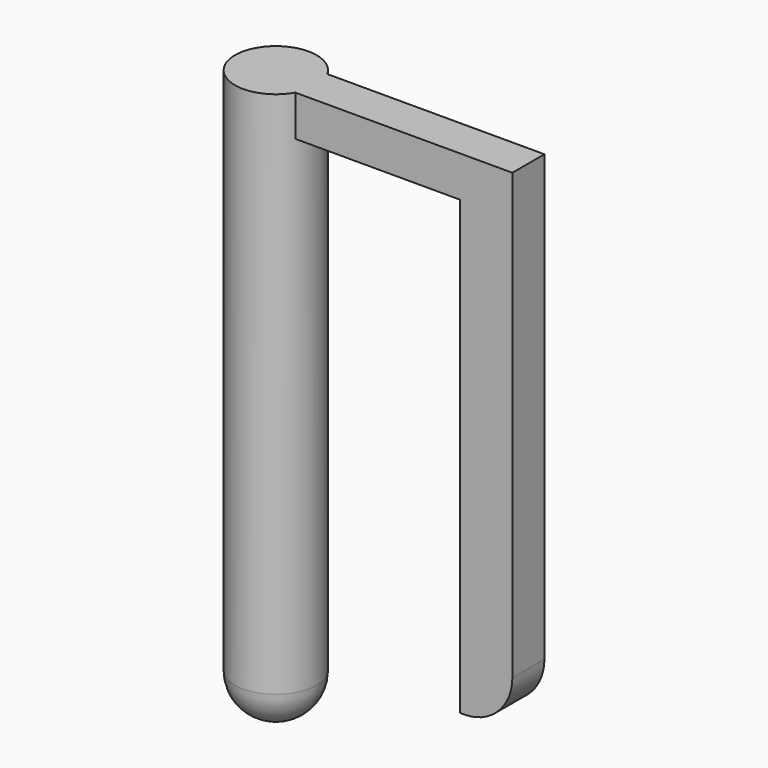
from build123d import *

# Parameters (mm, degrees)
F0_W     = 6.45983
F0_H     = 6.4516
F0_W_2   = 25.23437
F0_W_3   = 8.3058
F2_DEPTH = 3.175


with BuildPart() as f1:
    # F0 (on Front) → F1 (revolve)
    with BuildSketch(Plane.XZ):
        with BuildLine():
            Line((6.45983, 76.983965), (0, 76.983965))
            Line((0, 76.983965), (0, 0))
            Line((0, 0), (0, -6.564435))
            Line((0, -6.564435), (0.10983, -6.564435))
            ThreePointArc((0.10983, -6.564435), (4.599958, -4.704563), (6.45983, -0.214435))
            Line((6.45983, -0.214435), (6.45983, 76.983965))
        make_face()
        with Locations((3.229915, 80.209765)):
            Rectangle(F0_W, F0_H)
    revolve(axis=Axis((0, 0, 38.491982), (0, 0, 1)))

    # F0 (on Front) → F2 (join, symmetric)
    with BuildSketch(Plane.XZ):
        with Locations((19.077015, 80.209765)):
            Rectangle(F0_W_2, F0_H)
        with Locations((3.229915, 80.209765)):
            Rectangle(F0_W, F0_H)
        with Locations((35.8471, 80.209765)):
            Rectangle(F0_W_3, F0_H)
        with BuildLine():
            Line((40, 76.983965), (31.6942, 76.983965))
            Line((31.6942, 76.983965), (31.6942, 5.422794))
            Line((31.6942, 5.422794), (32.38, 5.422794))
            ThreePointArc((32.38, 5.422794), (37.768154, 7.654641), (40, 13.042794))
            Line((40, 13.042794), (40, 76.983965))
        make_face()
    extrude(amount=F2_DEPTH, both=True)


solid = f1.part
